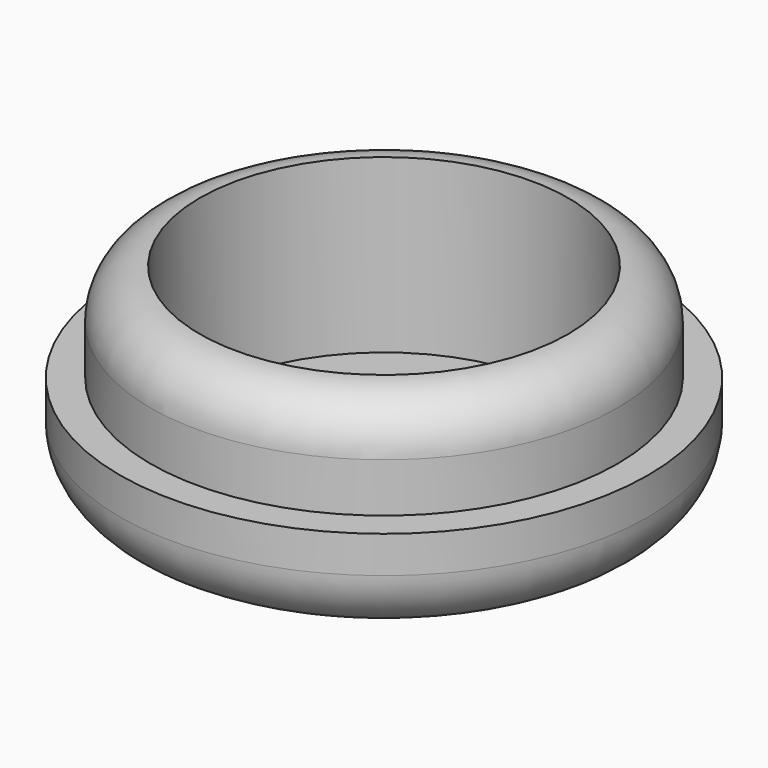
from build123d import *

# Parameters (mm, degrees)
F0_R     = 21.5
F1_DEPTH = 8
F2_R     = 19
F3_DEPTH = 8
F4_R     = 4
F5_R     = 5
F6_R     = 15
F7_DEPTH = 14


with BuildPart() as f1:
    # F0 (on Top) → F1 (new body)
    with BuildSketch(Plane.XY):
        Circle(F0_R)
    extrude(amount=F1_DEPTH)

    # F2 (on face) → F3 (join)
    with BuildSketch(Plane.XY.offset(8)):
        Circle(F2_R)
    extrude(amount=F3_DEPTH)

    # F4
    f4_edges = [f1.edges().sort_by_distance(p)[0] for p in [
        (-19, 0, 16),
    ]]
    fillet(f4_edges, radius=F4_R)

    # F5
    f5_edges = [f1.edges().sort_by_distance(p)[0] for p in [
        (-21.5, 0, 0),
    ]]
    fillet(f5_edges, radius=F5_R)

    # F6 (on face) → F7 (cut)
    with BuildSketch(Plane.XY.offset(16)):
        Circle(F6_R)
    extrude(amount=-F7_DEPTH, mode=Mode.SUBTRACT)


solid = f1.part
